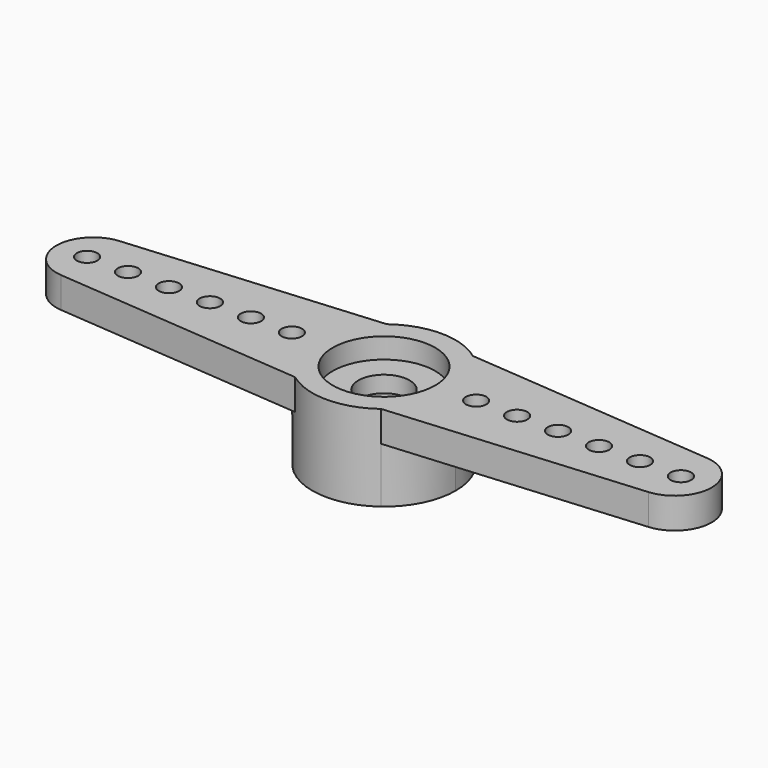
from build123d import *

# Parameters (mm, degrees)
F1_DEPTH = 4.2
F2_R     = 0.5
F3_DEPTH = 1.5
F4_R     = 2.5
F5_DEPTH = 1
F6_R     = 2.25
F7_DEPTH = 2.4
F8_R     = 1.25
F9_DEPTH = 25


with BuildPart() as f1:
    # F0 (on Top) → F1 (new body)
    with BuildSketch(Plane.XY):
        with BuildLine():
            ThreePointArc((2.1, -2.8), (3.130495, -1.565248), (3.5, 0))
            ThreePointArc((3.5, 0), (3.130495, 1.565248), (2.1, 2.8))
            ThreePointArc((2.1, 2.8), (0, 3.5), (-2.1, 2.8))
            ThreePointArc((-2.1, 2.8), (-3.5, 0), (-2.1, -2.8))
            ThreePointArc((-2.1, -2.8), (0, -3.5), (2.1, -2.8))
        make_face()
    extrude(amount=F1_DEPTH)

    # F2 (on face) → F3 (join)
    with BuildSketch(Plane.XY.offset(4.2)):
        with BuildLine():
            Line((-2.1, 2.8), (-14.347362, 1.793958))
            ThreePointArc((-14.347362, 1.793958), (-16, 0), (-14.347362, -1.793958))
            Line((-14.347362, -1.793958), (-2.1, -2.8))
            ThreePointArc((-2.1, -2.8), (-3.5, 0), (-2.1, 2.8))
        make_face()
        with Locations((-14.5, 0)):
            Circle(F2_R, mode=Mode.SUBTRACT)
        with Locations((-12.5, 0)):
            Circle(F2_R, mode=Mode.SUBTRACT)
        with Locations((-10.5, 0)):
            Circle(F2_R, mode=Mode.SUBTRACT)
        with Locations((-8.5, 0)):
            Circle(F2_R, mode=Mode.SUBTRACT)
        with Locations((-6.5, 0)):
            Circle(F2_R, mode=Mode.SUBTRACT)
        with Locations((-4.5, 0)):
            Circle(F2_R, mode=Mode.SUBTRACT)
        with BuildLine():
            Line((2.1, -2.8), (14.347362, -1.793958))
            ThreePointArc((14.347362, -1.793958), (16, 0), (14.347362, 1.793958))
            Line((14.347362, 1.793958), (2.1, 2.8))
            ThreePointArc((2.1, 2.8), (3.5, 0), (2.1, -2.8))
        make_face()
        with Locations((4.5, 0)):
            Circle(F2_R, mode=Mode.SUBTRACT)
        with Locations((6.5, 0)):
            Circle(F2_R, mode=Mode.SUBTRACT)
        with Locations((8.5, 0)):
            Circle(F2_R, mode=Mode.SUBTRACT)
        with Locations((10.5, 0)):
            Circle(F2_R, mode=Mode.SUBTRACT)
        with Locations((12.5, 0)):
            Circle(F2_R, mode=Mode.SUBTRACT)
        with Locations((14.5, 0)):
            Circle(F2_R, mode=Mode.SUBTRACT)
    extrude(amount=-F3_DEPTH)

    # F4 (on face) → F5 (cut)
    with BuildSketch(Plane.XY.offset(4.2)):
        Circle(F4_R)
    extrude(amount=-F5_DEPTH, mode=Mode.SUBTRACT)

    # F6 (on face) → F7 (cut)
    with BuildSketch(Plane(origin=(0, 0, 0), x_dir=(1, 0, 0), z_dir=(0, 0, -1))):
        Circle(F6_R)
    extrude(amount=-F7_DEPTH, mode=Mode.SUBTRACT)

    # F8 (on face) → F9 (cut)
    with BuildSketch(Plane.XY.offset(3.2)):
        Circle(F8_R)
    extrude(amount=-F9_DEPTH, mode=Mode.SUBTRACT)


solid = f1.part
